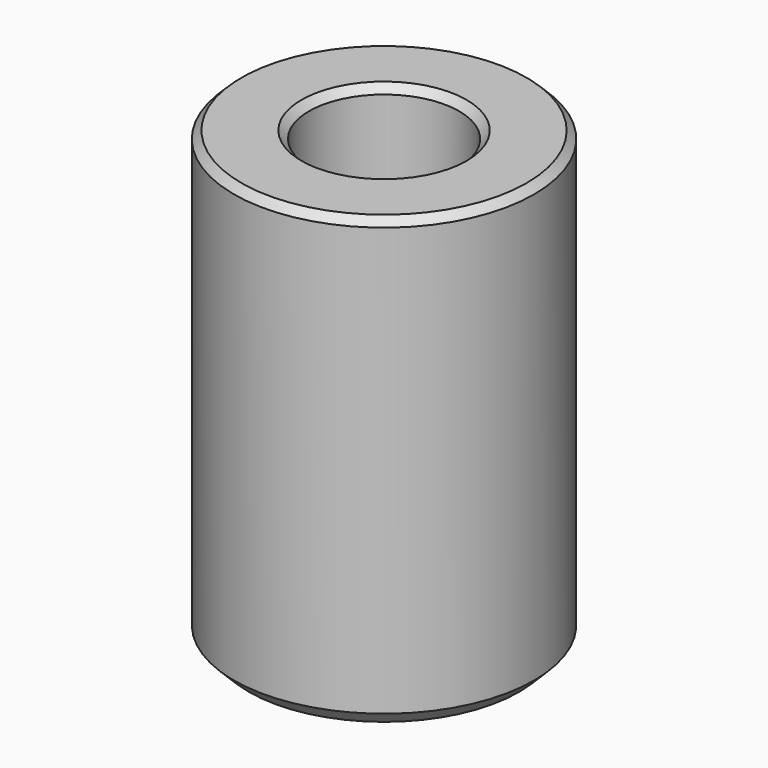
from build123d import *

# Parameters (mm, degrees)
F2_SIZE = 1
F3_SIZE = 0.5


with BuildPart() as f1:
    # F0 (on Front) → F1 (revolve)
    with BuildSketch(Plane.XZ):
        Polygon((0, -20), (0, -30), (10, -30), (10, 0), (5, 0), (5, -20), align=None)
    revolve(axis=Axis((0, 0, -25), (0, 0, -1)))

    # F2
    f2_edges = [f1.edges().sort_by_distance(p)[0] for p in [
        (-10, 0, -30),
    ]]
    chamfer(f2_edges, length=F2_SIZE)

    # F3
    f3_edges = [f1.edges().sort_by_distance(p)[0] for p in [
        (-10, 0, 0),
        (-5, 0, 0),
    ]]
    chamfer(f3_edges, length=F3_SIZE)


solid = f1.part
